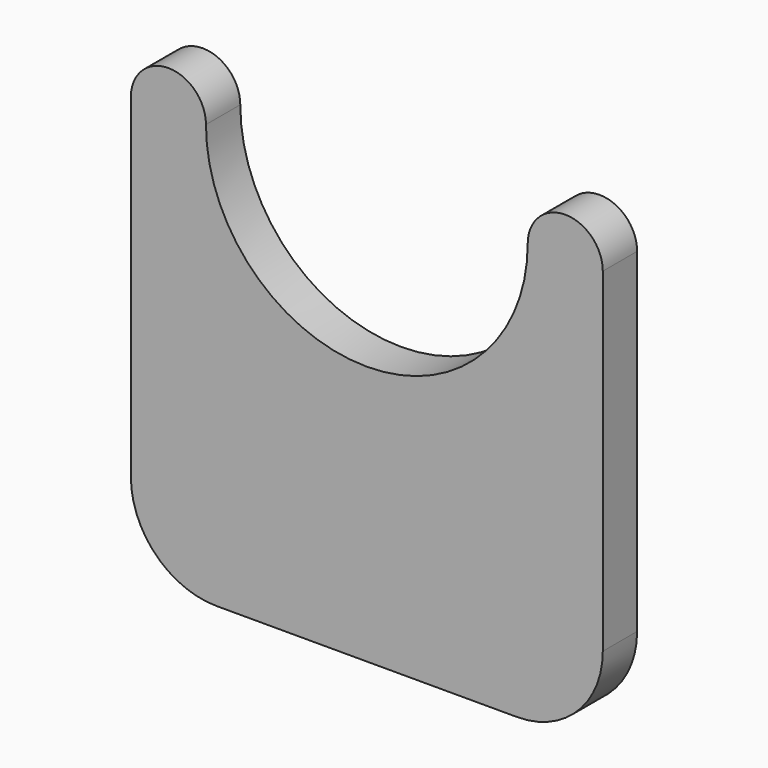
from build123d import *

# Parameters (mm, degrees)
F1_DEPTH = 1
F2_R     = 2


with BuildPart() as f1:
    # F0 (on Front) → F1 (new body)
    with BuildSketch(Plane.XZ):
        with BuildLine():
            ThreePointArc((3.75, 0), (0, -3.75), (-3.75, 0))
            ThreePointArc((-3.75, 0), (-4.625, 0.875), (-5.5, 0))
            Line((-5.5, 0), (-5.5, -9.8))
            Line((-5.5, -9.8), (0, -9.8))
            Line((0, -9.8), (5.5, -9.8))
            Line((5.5, -9.8), (5.5, 0))
            ThreePointArc((5.5, 0), (4.625, 0.875), (3.75, 0))
        make_face()
    extrude(amount=F1_DEPTH)

    # F2
    f2_edges = [f1.edges().sort_by_distance(p)[0] for p in [
        (-5.5, -0.5, -9.8),
        (5.5, -0.5, -9.8),
    ]]
    fillet(f2_edges, radius=F2_R)


solid = f1.part
